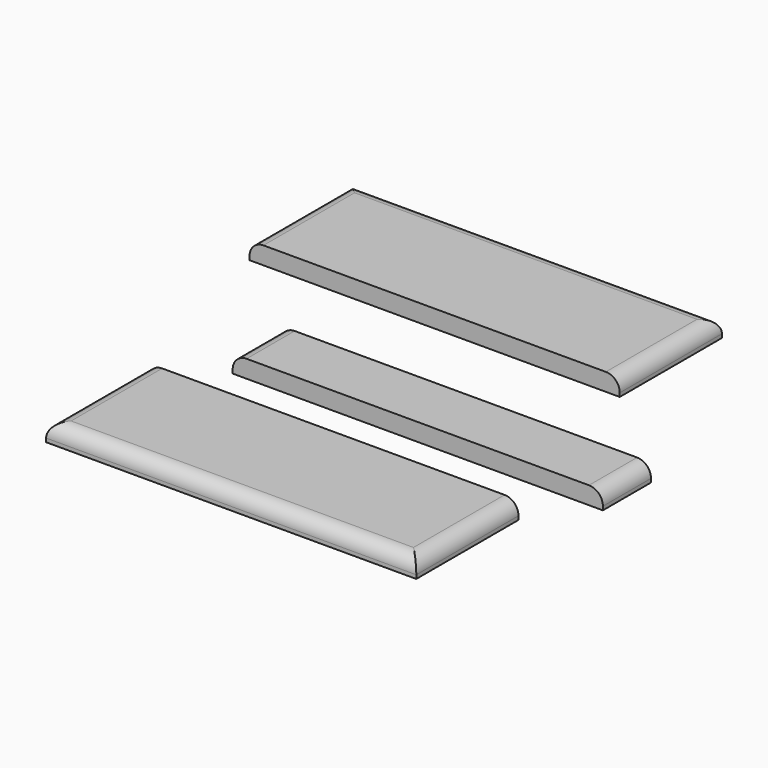
from build123d import *

# Parameters (mm, degrees)
F0_W     = 400
F0_H     = 138
F1_DEPTH = 19
F2_W     = 400
F2_H     = 65
F3_DEPTH = 19
F4_W     = 400
F4_H     = 138
F5_DEPTH = 19
F6_R     = 15
F6_2_R   = 15
F6_3_R   = 15


with BuildPart() as f1:
    # F0 (on Top) → F1 (new body)
    with BuildSketch(Plane.XY):
        with Locations((0.82577, -34.089036)):
            Rectangle(F0_W, F0_H)
    extrude(amount=F1_DEPTH)

    # F6#3
    f6_3_edges = [f1.edges().sort_by_distance(p)[0] for p in [
        (-199.17423, -34.089036, 19),
        (0.82577, 34.910964, 19),
        (200.82577, -34.089036, 19),
    ]]
    fillet(f6_3_edges, radius=F6_3_R)


with BuildPart() as f3:
    # F2 (on Top) → F3 (new body)
    with BuildSketch(Plane.XY):
        with Locations((119.135375, -241.269276)):
            Rectangle(F2_W, F2_H)
    extrude(amount=F3_DEPTH)

    # F6#2
    f6_2_edges = [f3.edges().sort_by_distance(p)[0] for p in [
        (319.135375, -241.269276, 19),
        (-80.864625, -241.269276, 19),
    ]]
    fillet(f6_2_edges, radius=F6_2_R)


with BuildPart() as f5:
    # F4 (on Top) → F5 (new body)
    with BuildSketch(Plane.XY):
        with Locations((74.51532, -401.005851)):
            Rectangle(F4_W, F4_H)
    extrude(amount=F5_DEPTH)

    # F6
    f6_edges = [f5.edges().sort_by_distance(p)[0] for p in [
        (-125.48468, -401.005851, 19),
        (74.51532, -470.005851, 19),
        (274.51532, -401.005851, 19),
    ]]
    fillet(f6_edges, radius=F6_R)


solid = Compound([f1.part, f3.part, f5.part])
